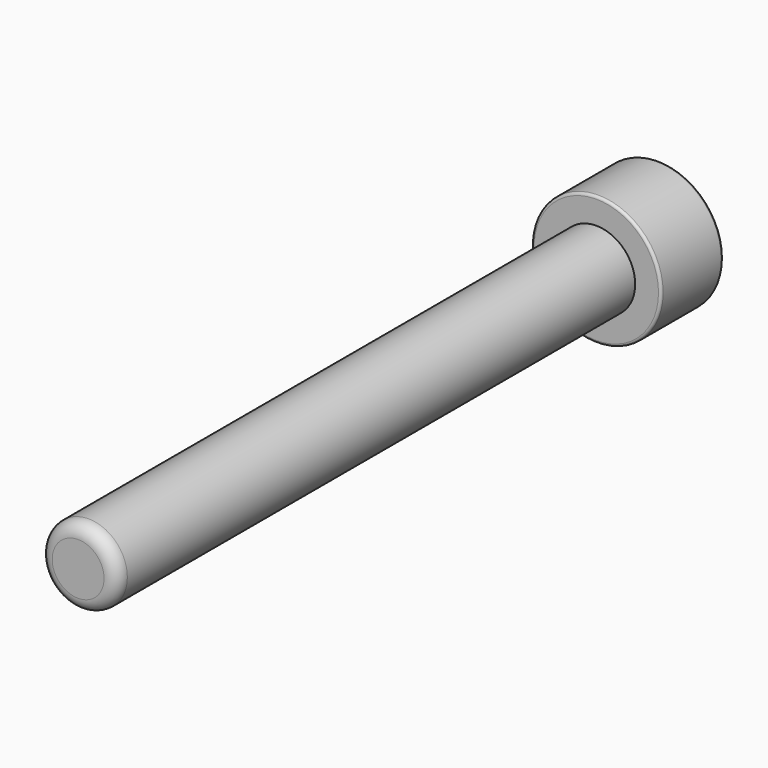
from build123d import *

# Parameters (mm, degrees)
F0_R     = 3
F1_DEPTH = 50
F0_R_2   = 5
F2_DEPTH = 6
F4_DEPTH = 4
F5_R     = 0.2
F6_R     = 1


with BuildPart() as f1:
    # F0 (on Front) → F1 (new body)
    with BuildSketch(Plane.XZ):
        Circle(F0_R)
    extrude(amount=F1_DEPTH)

    # F0 (on Front) → F2 (join)
    with BuildSketch(Plane.XZ):
        Circle(F0_R_2)
        Circle(F0_R, mode=Mode.SUBTRACT)
        Circle(F0_R)
    extrude(amount=-F2_DEPTH)

    # F3 (on face) → F4 (cut)
    with BuildSketch(Plane(origin=(0, 6, 0), x_dir=(-1, 0, 0), z_dir=(0, 1, 0))):
        Polygon((2.196781, 1.872829), (-0.523527, 2.838882), (-2.720308, 0.966054), (-2.196781, -1.872829), (0.523527, -2.838882), (2.720308, -0.966054), align=None)
    extrude(amount=-F4_DEPTH, mode=Mode.SUBTRACT)

    # F5
    f5_edges = [f1.edges().sort_by_distance(p)[0] for p in [
        (-5, 6, 0),
        (-5, 0, 0),
        (0.836627, 6, -2.355855),
        (-1.621917, 6, -1.902468),
        (-2.458544, 6, 0.453387),
        (2.458544, 6, -0.453387),
        (1.621917, 6, 1.902468),
        (-0.836627, 6, 2.355855),
        (-1.621917, 2, -1.902468),
        (0.836627, 2, -2.355855),
        (2.458544, 2, -0.453387),
        (0.523527, 4, 2.838882),
        (2.720308, 4, 0.966054),
        (1.621917, 2, 1.902468),
        (-0.836627, 2, 2.355855),
        (-2.458544, 2, 0.453387),
    ]]
    fillet(f5_edges, radius=F5_R)

    # F6
    f6_edges = [f1.edges().sort_by_distance(p)[0] for p in [
        (-3, -50, 0),
    ]]
    fillet(f6_edges, radius=F6_R)


solid = f1.part
